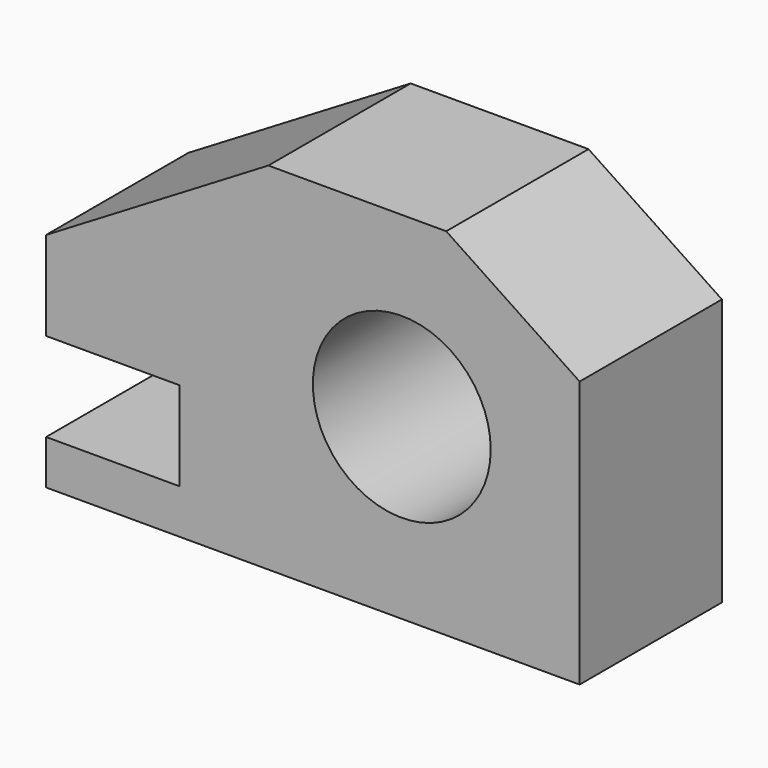
from build123d import *

# Parameters (mm, degrees)
F0_R     = 12.7
F1_DEPTH = 25.4


with BuildPart() as f1:
    # F0 (on Front) → F1 (new body)
    with BuildSketch(Plane.XZ):
        Polygon((6.35, 25.4), (-19.05, 25.4), (-50.8, 6.35), (-50.8, -6.35), (-31.75, -6.35), (-31.75, -19.05), (-50.8, -19.05), (-50.8, -25.4), (25.4, -25.4), (25.4, 12.7), align=None)
        Circle(F0_R, mode=Mode.SUBTRACT)
    extrude(amount=F1_DEPTH)


solid = f1.part
